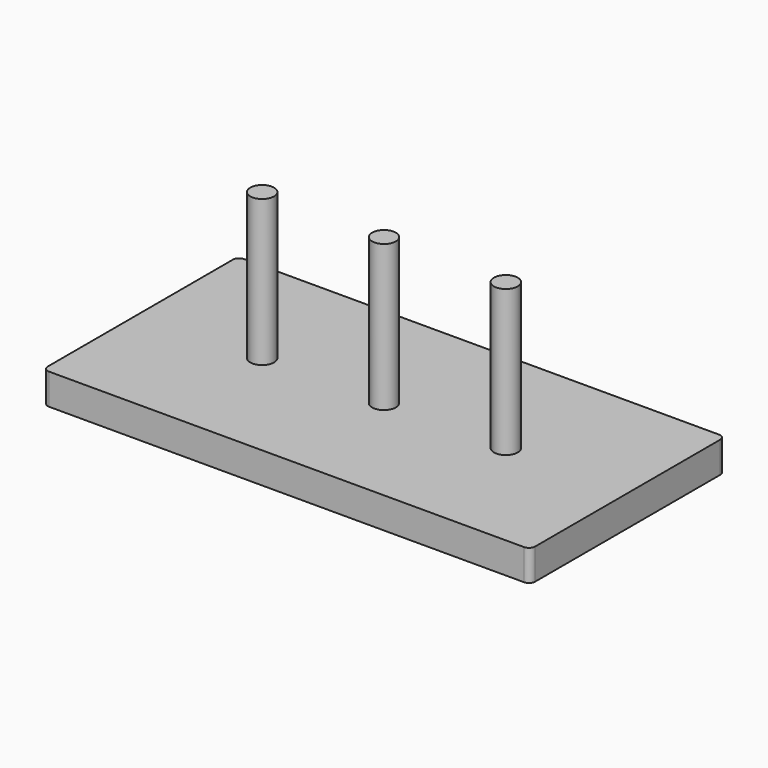
from build123d import *

# Parameters (mm, degrees)
F0_W     = 400
F0_H     = 200
F1_DEPTH = 25.4
F2_R     = 5.08
F3_R     = 9.75
F4_DEPTH = 120


with BuildPart() as f1:
    # F0 (on Top) → F1 (new body)
    with BuildSketch(Plane.XY):
        Rectangle(F0_W, F0_H)
    extrude(amount=F1_DEPTH)

    # F2
    f2_edges = [f1.edges().sort_by_distance(p)[0] for p in [
        (200, 100, 12.7),
        (200, -100, 12.7),
        (-200, 100, 12.7),
        (-200, -100, 12.7),
    ]]
    fillet(f2_edges, radius=F2_R)

    # F3 (on face) → F4 (join)
    with BuildSketch(Plane.XY.offset(25.4)):
        with Locations((-100, 0)):
            Circle(F3_R)
        Circle(F3_R)
        with Locations((100, 0)):
            Circle(F3_R)
    extrude(amount=F4_DEPTH)


solid = f1.part
